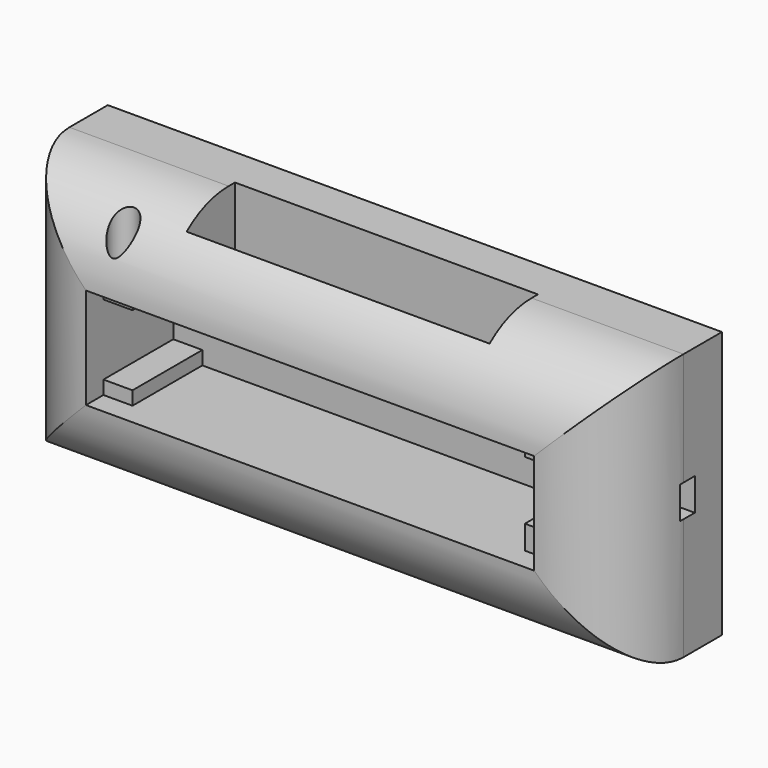
from build123d import *

# Parameters (mm, degrees)
F0_W      = 140.6558603048
F0_H      = 61.1045844853
F1_DEPTH  = 30
F2_R      = 19
F3_W      = 102.6558603048
F3_H      = 23.1045844853
F4_DEPTH  = 25
F5_W      = 4.1960617527
F5_H      = 7.4001618195
F6_DEPTH  = 55.3
F7_W      = 69.3877674639
F7_H      = 13.8425575569
F8_DEPTH  = 54.5
F9_R      = 3.055172352
F10_DEPTH = 61.9
F11_W     = 6.6588682532
F11_H     = 3.1128286794
F11_H_2   = 3.8515164927
F11_W_2   = 6.1259952784
F11_H_3   = 4.1949943118
F11_H_4   = 5.4464771822
F12_DEPTH = 20
F13_R     = 1.4165828047
F14_DEPTH = 15


with BuildPart() as f1:
    # F0 (on Front) → F1 (new body)
    with BuildSketch(Plane.XZ):
        Rectangle(F0_W, F0_H)
    extrude(amount=F1_DEPTH)

    # F2
    f2_edges = [f1.edges().sort_by_distance(p)[0] for p in [
        (0, -30, 30.552292),
        (-70.32793, -30, 0),
        (0, -30, -30.552292),
        (70.32793, -30, 0),
    ]]
    fillet(f2_edges, radius=F2_R)

    # F3 (on face) → F4 (cut)
    with BuildSketch(Plane.XZ.offset(30)):
        Rectangle(F3_W, F3_H)
    extrude(amount=-F4_DEPTH, mode=Mode.SUBTRACT)

    # F5 (on face) → F6 (cut)
    with BuildSketch(Plane(origin=(51.3279301524, 0, 0), x_dir=(0, -1, 0), z_dir=(-1, 0, 0))):
        with Locations((9.8722497933, 0.9650638094)):
            Rectangle(F5_W, F5_H)
    extrude(amount=-F6_DEPTH, mode=Mode.SUBTRACT)

    # F7 (on face) → F8 (cut)
    with BuildSketch(Plane(origin=(0, 0, 11.5522922426), x_dir=(1, 0, 0), z_dir=(0, 0, -1))):
        with Locations((0.842327252, 16.1106861196)):
            Rectangle(F7_W, F7_H)
    extrude(amount=-F8_DEPTH, mode=Mode.SUBTRACT)

    # F9 (on face) → F10 (cut)
    with BuildSketch(Plane(origin=(0, 0, 11.5522922426), x_dir=(1, 0, 0), z_dir=(0, 0, -1))):
        with Locations((-46.420622617, 25.4190824926)):
            Circle(F9_R)
    extrude(amount=-F10_DEPTH, mode=Mode.SUBTRACT)

    # F11 (on face) → F12 (join)
    with BuildSketch(Plane.XZ.offset(5)):
        with Locations((-47.9984960258, -9.995877903)):
            Rectangle(F11_W, F11_H)
        with Locations((-47.9984960258, 9.6265339963)):
            Rectangle(F11_W, F11_H_2)
        with Locations((48.2649325132, 9.4547950868)):
            Rectangle(F11_W_2, F11_H_3)
        with Locations((48.2649325132, -8.8290536515)):
            Rectangle(F11_W_2, F11_H_4)
    extrude(amount=F12_DEPTH)

    # F13 (on face) → F14 (cut)
    with BuildSketch(Plane.XZ.offset(25)):
        with Locations((-47.9030236602, 9.6265339963)):
            Circle(F13_R)
    extrude(amount=-F14_DEPTH, mode=Mode.SUBTRACT)


solid = f1.part
